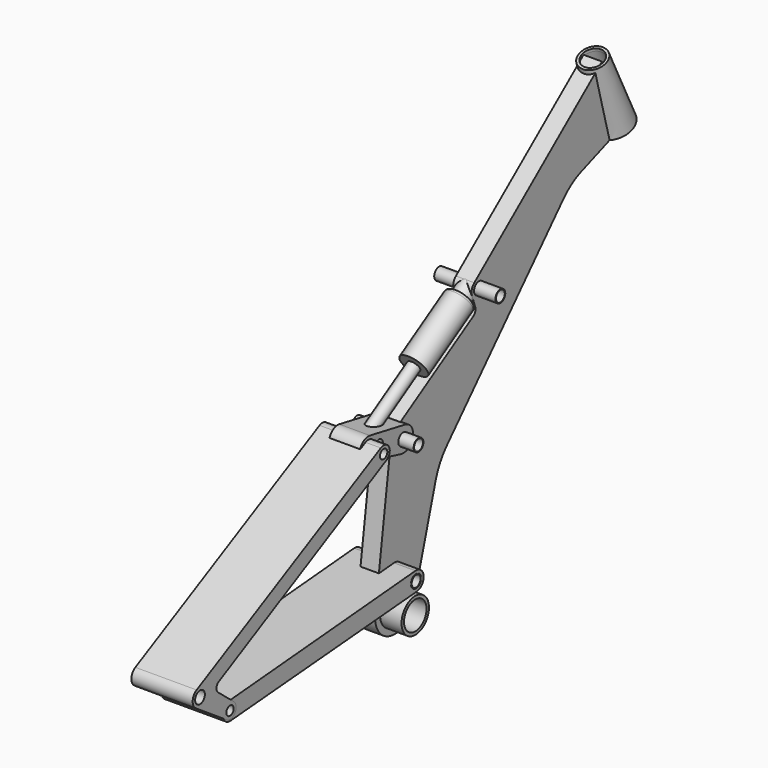
from build123d import *

# Parameters (mm, degrees)
F3_R           = 28
F3_R_2         = 23
F4_DEPTH       = 50
F6_R           = 28
F6_R_2         = 10
F7_DEPTH       = 15
F8_R           = 10
F8_R_2         = 9
F9_DEPTH       = 50
F10_R          = 10
F10_R_2        = 9
F11_DEPTH      = 50
F12_R          = 10
F12_R_2        = 9
F13_DEPTH      = 50
F14_R          = 10
F14_R_2        = 10.5
F15_DEPTH      = 50
F16_R          = 10
F16_R_2        = 7.5
F17_DEPTH      = 25
F18_R          = 7.5
F18_R_2        = 10
F19_DEPTH      = 50
F24_R          = 10
F25_DEPTH      = 50.001
F25_DEPTH_BACK = 50.001
F26_R          = 5
F27_DEPTH      = 50.001
F27_DEPTH_BACK = 50.001
F28_R          = 5


with BuildPart() as f2:
    # F1 (on Right) → F2 (revolve)
    with BuildSketch(Plane.YZ):
        Polygon((-248.4087363355, 430.2523674684), (-243.7253753893, 432.0034043747), (-245.4764122956, 436.686765321), (-275.0992623526, 540.1880098817), (-276.8502992589, 544.871370828), (-280.7917995578, 543.397704252), align=None)
    revolve(axis=Axis((0, -155.988308036, 271.5816829535), (0, 0.3502073813, -0.9366721892)))



with BuildPart() as f4:
    # F3 (on Right) → F4 (new body, symmetric)
    with BuildSketch(Plane.YZ):
        with Locations((-685.1507425308, -60.9121769667)):
            Circle(F3_R)
        with Locations((-685.1507425308, -60.9121769667)):
            Circle(F3_R_2, mode=Mode.SUBTRACT)
    extrude(amount=F4_DEPTH, both=True)


with BuildPart() as f2_1:
    add(f2.part)

    add(f4.part)  # F7 merges F4
    # F6 (on Right) → F7 (join, symmetric)
    with BuildSketch(Plane.YZ):
        with BuildLine():
            Line((-260.4585359471, 551), (-520.934562818, 338.9834032468))
            ThreePointArc((-520.934562818, 338.9834032468), (-525.892452599, 331.4563186652), (-525.6413850401, 322.4466217524))
            Line((-525.6413850401, 322.4466217524), (-519.0079185243, 303.2689188318))
            ThreePointArc((-519.0079185243, 303.2689188318), (-519.0414539583, 296.6356922233), (-523.2185826745, 291.4827886194))
            Line((-523.2185826745, 291.4827886194), (-685.0084775377, 191.9465142258))
            ThreePointArc((-685.0084775377, 191.9465142258), (-689.3700956404, 187.3981853906), (-690.9585359471, 181.3))
            Line((-690.9585359471, 181.3), (-723.0925150562, -54.6011390109))
            ThreePointArc((-723.0925150562, -54.6011390109), (-691.6861473909, -99.1446855899), (-645.0047692779, -71.0139833371))
            Line((-645.0047692779, -71.0139833371), (-599.5929526201, 87.5349583428))
            ThreePointArc((-599.5929526201, 87.5349583428), (-590.6219859757, 109.0156401478), (-576.927649988, 127.8401745431))
            Line((-576.927649988, 127.8401745431), (-338.3040787366, 386.2631884461))
            ThreePointArc((-338.3040787366, 386.2631884461), (-322.2551696804, 400.0118901238), (-303.4585359471, 409.670090785))
            Line((-303.4585359471, 409.670090785), (-219.3718984688, 441.1087962875))
            Line((-219.3718984688, 441.1087962875), (-260.4585359471, 551))
        make_face()
        with Locations((-685.1507425308, -60.9121769667)):
            Circle(F6_R, mode=Mode.SUBTRACT)
        with Locations((-683.4585359471, -12.2846839949)):
            Circle(F6_R_2, mode=Mode.SUBTRACT)
        with Locations((-678.4585359471, 181.3)):
            Circle(F6_R_2, mode=Mode.SUBTRACT)
        with Locations((-511.4654589059, 327.35)):
            Circle(F6_R_2, mode=Mode.SUBTRACT)
    extrude(amount=F7_DEPTH, both=True)

    # F8 (on Right) → F9 (join, symmetric)
    with BuildSketch(Plane.YZ):
        with Locations((-683.4585359471, -12.37)):
            Circle(F8_R)
        with Locations((-683.4585359471, -12.37)):
            Circle(F8_R_2, mode=Mode.SUBTRACT)
    extrude(amount=F9_DEPTH, both=True)

    # F10 (on Right) → F11 (join, symmetric)
    with BuildSketch(Plane.YZ):
        with Locations((-678.4585359471, 181.3)):
            Circle(F10_R)
        with Locations((-678.4585359471, 181.3)):
            Circle(F10_R_2, mode=Mode.SUBTRACT)
    extrude(amount=F11_DEPTH, both=True)

    # F12 (on Right) → F13 (join, symmetric)
    with BuildSketch(Plane.YZ):
        with Locations((-511.4654589059, 327.35)):
            Circle(F12_R)
        with Locations((-511.4654589059, 327.35)):
            Circle(F12_R_2, mode=Mode.SUBTRACT)
    extrude(amount=F13_DEPTH, both=True)


with BuildPart() as f15:
    # F14 (on Right) → F15 (new body, symmetric)
    with BuildSketch(Plane.YZ):
        with BuildLine():
            Line((-684.7704719566, 3.0743783917), (-1064.4029300336, -29.1738273628))
            ThreePointArc((-1064.4029300336, -29.1738273628), (-1078.0811404694, -45.37), (-1061.9029321864, -59.0694534771))
            Line((-1061.9029321864, -59.0694534771), (-682.1871408478, -27.817768593))
            ThreePointArc((-682.1871408478, -27.817768593), (-668.0124491539, -11.0783333333), (-684.7704719566, 3.0743783917))
        make_face()
        with Locations((-1063.1333145405, -44.12)):
            Circle(F14_R, mode=Mode.SUBTRACT)
        with Locations((-683.4585359471, -12.37)):
            Circle(F14_R_2, mode=Mode.SUBTRACT)
    extrude(amount=F15_DEPTH, both=True)


with BuildPart() as f17:
    # F16 (on Right) → F17 (new body, symmetric)
    with BuildSketch(Plane.YZ):
        with BuildLine():
            Line((-674.7757775917, 200.9580083146), (-746.42438584, 214.3807572753))
            ThreePointArc((-746.42438584, 214.3807572753), (-766.7269992456, 200.9900883541), (-754.0400850474, 180.2404297212))
            Line((-754.0400850474, 180.2404297212), (-683.4794338287, 161.94049111))
            ThreePointArc((-683.4794338287, 161.94049111), (-658.9383075531, 176.9456133096), (-674.7757775917, 200.9580083146))
        make_face()
        with Locations((-678.4585359471, 181.3)):
            Circle(F16_R, mode=Mode.SUBTRACT)
        with Locations((-749.6467994009, 197.18)):
            Circle(F16_R_2, mode=Mode.SUBTRACT)
        with Locations((-727.6454244439, 194)):
            Circle(F16_R_2, mode=Mode.SUBTRACT)
    extrude(amount=F17_DEPTH, both=True)


with BuildPart() as f19:
    # F18 (on Right) → F19 (new body, symmetric)
    with BuildSketch(Plane.YZ):
        with BuildLine():
            ThreePointArc((-1070.0984876751, -54.499612864), (-1053.1022591113, -51.5784131674), (-1055.1990735972, -34.4609202999))
            Line((-1055.1990735972, -34.4609202999), (-1087.677856374, -7.7819305722))
            ThreePointArc((-1087.677856374, -7.7819305722), (-1090.8604869097, -0.0442745074), (-1086.166917356, 6.881825647))
            Line((-1086.166917356, 6.881825647), (-743.8488775085, 186.1059717478))
            ThreePointArc((-743.8488775085, 186.1059717478), (-738.5616004345, 202.9565356291), (-755.4019272445, 208.2763283794))
            Line((-755.4019272445, 208.2763283794), (-1131.3011927247, 13.3155940553))
            ThreePointArc((-1131.3011927247, 13.3155940553), (-1139.3712858159, 0.8438250204), (-1132.7532470738, -12.4555354367))
            Line((-1132.7532470738, -12.4555354367), (-1070.0984876751, -54.499612864))
        make_face()
        with Locations((-1063.1333145405, -44.12)):
            Circle(F18_R, mode=Mode.SUBTRACT)
        with Locations((-1124.3950393123, 0)):
            Circle(F18_R_2, mode=Mode.SUBTRACT)
        with Locations((-749.6467994009, 197.18)):
            Circle(F18_R, mode=Mode.SUBTRACT)
    extrude(amount=F19_DEPTH, both=True)


with BuildPart() as f21:
    # F20 (on Right) → F21 (revolve)
    with BuildSketch(Plane.YZ):
        with BuildLine():
            Line((-622.2521349953, 270.7610222653), (-732.8954244439, 202.5110222653))
            ThreePointArc((-732.8954244439, 202.5110222653), (-737.3759366037, 196.3058909574), (-736.1564467092, 188.75))
            Line((-736.1564467092, 188.75), (-608.4911127301, 267.5))
            Line((-608.4911127301, 267.5), (-618.9911127301, 284.5220445305))
            Line((-618.9911127301, 284.5220445305), (-627.5021349953, 279.2720445305))
            Line((-627.5021349953, 279.2720445305), (-622.2521349953, 270.7610222653))
        make_face()
    revolve(axis=Axis((0, -603.6088675648, 270.5115991145), (0, 0.8511022265, 0.525)))

    # F26 (on Right) → F27 (cut, two sides)
    with BuildSketch(Plane.YZ) as f27_sk:
        with Locations((-727.6454244439, 194)):
            Circle(F26_R)
    extrude(amount=-F27_DEPTH, mode=Mode.SUBTRACT)
    extrude(f27_sk.sketch, amount=F27_DEPTH_BACK, mode=Mode.SUBTRACT)


with BuildPart() as f23:
    # F22 (on Right) → F23 (revolve)
    with BuildSketch(Plane.YZ):
        with BuildLine():
            Line((-637.0631572606, 275.7242489836), (-630.7631572606, 265.5110222653))
            Line((-630.7631572606, 265.5110222653), (-626.507646128, 268.1360222653))
            Line((-626.507646128, 268.1360222653), (-631.757646128, 276.6470445305))
            Line((-631.757646128, 276.6470445305), (-542.3919123426, 331.7720445305))
            Line((-542.3919123426, 331.7720445305), (-531.8919123426, 314.75))
            Line((-531.8919123426, 314.75), (-498.698925508, 335.225))
            ThreePointArc((-498.698925508, 335.225), (-508.0066224699, 341.9457682398), (-519.3404589059, 340.1165333979))
            Line((-519.3404589059, 340.1165333979), (-538.0647078895, 328.5665333979))
            Line((-538.0647078895, 328.5665333979), (-541.7397078895, 334.5242489836))
            Line((-541.7397078895, 334.5242489836), (-637.0631572606, 275.7242489836))
        make_face()
    revolve(axis=Axis((0, -623.0048464368, 258.5472444337), (0, 0.8511022265, 0.525)))

    # F24 (on Right) → F25 (cut, two sides)
    with BuildSketch(Plane.YZ) as f25_sk:
        with Locations((-511.4654589059, 327.35)):
            Circle(F24_R)
    extrude(amount=-F25_DEPTH, mode=Mode.SUBTRACT)
    extrude(f25_sk.sketch, amount=F25_DEPTH_BACK, mode=Mode.SUBTRACT)

    # F28
    f28_edges = [f23.edges().sort_by_distance(p)[0] for p in [
        (0, -518.639708, 297.075751),
    ]]
    fillet(f28_edges, radius=F28_R)


solid = Compound([f2_1.part, f15.part, f17.part, f19.part, f21.part, f23.part])
